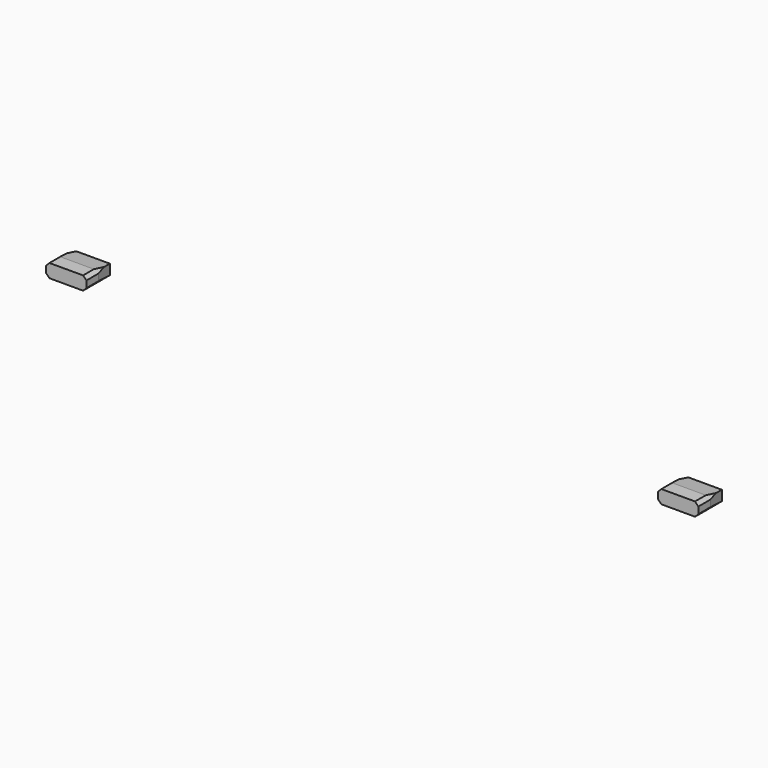
from build123d import *

# Parameters (mm, degrees)
BOX085016_W                    = 2
BOX085016_H                    = 5
BOX085016_DEPTH                = 6
CHAMFER011005_SIZE2            = 2.75
CHAMFER011005_SIZE             = 0.5
CHAMFER011005_PLACEMENT_ANGLE  = 90
CHAMFER011006003016_SIZE       = 0.5
BOX085015_W                    = 2
BOX085015_H                    = 5
BOX085015_DEPTH                = 6
CHAMFER011004_SIZE2            = 2.75
CHAMFER011004_SIZE             = 0.5
CHAMFER011004_PLACEMENT_ANGLE  = 90
CHAMFER011006003015_SIZE       = 0.5
CHAMFER011006003017059_1_SIZE2 = 0.5
CHAMFER011006003017059_1_SIZE  = 3
CHAMFER011006003017059_2_SIZE2 = 0.5
CHAMFER011006003017059_2_SIZE  = 3


with BuildPart() as chamfer011006003016:
    # Box085016 → Box085016 (new body)
    with BuildSketch(Plane(origin=(1, 95, 38), x_dir=(1, 0, 0), z_dir=(0, 0, 1))):
        with Locations((1, 2.5)):
            Rectangle(BOX085016_W, BOX085016_H)
    extrude(amount=BOX085016_DEPTH)

    # Chamfer011005
    chamfer011005_edges = [chamfer011006003016.edges().sort_by_distance(p)[0] for p in [
        (2, 100, 38),
        (2, 100, 44),
    ]]
    chamfer011005_side = chamfer011006003016.faces().sort_by_distance((2, 100, 41))[0]
    chamfer(chamfer011005_edges, length=CHAMFER011005_SIZE, length2=CHAMFER011005_SIZE2, reference=chamfer011005_side)


with BuildPart() as chamfer011006003016_1:
    # Chamfer011005 placement: moved
    add(chamfer011006003016.part.moved(Location((101, 17.2, 99.001))).rotate(Axis((101, 17.2, 99.001), (0, 1, 0)), CHAMFER011005_PLACEMENT_ANGLE))

    # Chamfer011006003016
    chamfer011006003016_edges = [chamfer011006003016_1.edges().sort_by_distance(p)[0] for p in [
        (145, 113.325, 98.001),
        (139, 113.325, 98.001),
        (145, 113.325, 96.001),
        (139, 113.325, 96.001),
    ]]
    chamfer(chamfer011006003016_edges, length=CHAMFER011006003016_SIZE)


with BuildPart() as top_tabs_old:
    # Box085015 → Box085015 (new body)
    with BuildSketch(Plane(origin=(1, 95, 38), x_dir=(1, 0, 0), z_dir=(0, 0, 1))):
        with Locations((1, 2.5)):
            Rectangle(BOX085015_W, BOX085015_H)
    extrude(amount=BOX085015_DEPTH)

    # Chamfer011004
    chamfer011004_edges = [top_tabs_old.edges().sort_by_distance(p)[0] for p in [
        (2, 100, 38),
        (2, 100, 44),
    ]]
    chamfer011004_side = top_tabs_old.faces().sort_by_distance((2, 100, 41))[0]
    chamfer(chamfer011004_edges, length=CHAMFER011004_SIZE, length2=CHAMFER011004_SIZE2, reference=chamfer011004_side)


with BuildPart() as top_tabs_old_1:
    # Chamfer011004 placement: moved
    add(top_tabs_old.part.moved(Location((10, 17.2, 99.001))).rotate(Axis((10, 17.2, 99.001), (0, 1, 0)), CHAMFER011004_PLACEMENT_ANGLE))

    # Chamfer011006003015
    chamfer011006003015_edges = [top_tabs_old_1.edges().sort_by_distance(p)[0] for p in [
        (54, 113.325, 98.001),
        (48, 113.325, 98.001),
        (54, 113.325, 96.001),
        (48, 113.325, 96.001),
    ]]
    chamfer(chamfer011006003015_edges, length=CHAMFER011006003015_SIZE)

    # Fusion004008002002002001007002002026012007: union Chamfer011006003016
    add(chamfer011006003016_1.part)

    # Chamfer011006003017059 1
    chamfer011006003017059_1_edges = [top_tabs_old_1.edges().sort_by_distance(p)[0] for p in [
        (142, 117.2, 98.001),
    ]]
    chamfer011006003017059_1_side = top_tabs_old_1.faces().sort_by_distance((142, 114.7, 98.001))[0]
    chamfer(chamfer011006003017059_1_edges, length=CHAMFER011006003017059_1_SIZE, length2=CHAMFER011006003017059_1_SIZE2, reference=chamfer011006003017059_1_side)

    # Chamfer011006003017059 2
    chamfer011006003017059_2_edges = [top_tabs_old_1.edges().sort_by_distance(p)[0] for p in [
        (51, 117.2, 98.001),
    ]]
    chamfer011006003017059_2_side = top_tabs_old_1.faces().sort_by_distance((51, 114.7, 98.001))[0]
    chamfer(chamfer011006003017059_2_edges, length=CHAMFER011006003017059_2_SIZE, length2=CHAMFER011006003017059_2_SIZE2, reference=chamfer011006003017059_2_side)


solid = top_tabs_old_1.part
